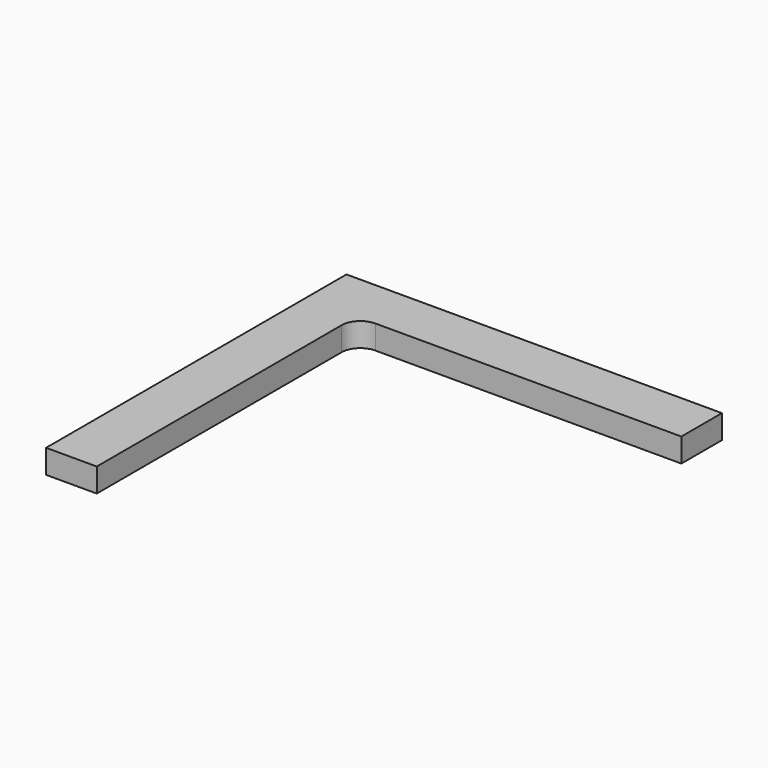
from build123d import *

# Parameters (mm, degrees)
SKETCH014_W     = 200
SKETCH014_H     = 200
PAD007_DEPTH    = 12.7
SKETCH015_W     = 329.815369
SKETCH015_H     = 292.155731
POCKET002_DEPTH = 13
FILLET_R        = 10


with BuildPart() as part:
    # Sketch014 → Pad007 (new body)
    with BuildSketch(Plane.XY):
        with Locations((100, -100)):
            Rectangle(SKETCH014_W, SKETCH014_H)
    extrude(amount=PAD007_DEPTH)

    # Sketch015 (on Face6 of Pad007) → Pocket002 (cut)
    with BuildSketch(Plane.XY.offset(12.7)):
        with Locations((191.907684, -173.077866)):
            Rectangle(SKETCH015_W, SKETCH015_H)
    extrude(amount=-POCKET002_DEPTH, mode=Mode.SUBTRACT)

    # Fillet
    fillet_edges = [part.edges().sort_by_distance(p)[0] for p in [
        (27, -27, 6.35),
    ]]
    fillet(fillet_edges, radius=FILLET_R)


with BuildPart() as part_1:
    # Body008 placement: moved
    add(part.part.moved(Location((0, -22, 231))))


solid = part_1.part
